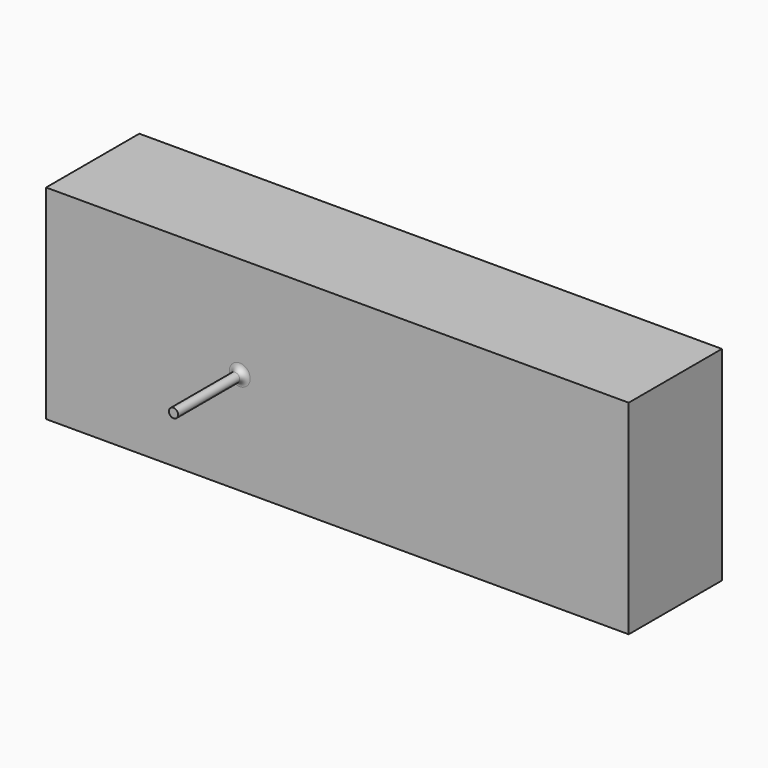
from build123d import *

# Parameters (mm, degrees)
BOX_W             = 100
BOX_H             = 20
BOX_DEPTH         = 35
CYLINDER001_R     = 0.795
CYLINDER001_DEPTH = 15
FILLET_R          = 1


with BuildPart() as cube:
    # Box → Box (new body)
    with BuildSketch(Plane(origin=(500, -8.3245, -17.5), x_dir=(1, 0, 0), z_dir=(0, 0, 1))):
        with Locations((50, 10)):
            Rectangle(BOX_W, BOX_H)
    extrude(amount=BOX_DEPTH)


with BuildPart() as fillet_body:
    # Cylinder001 → Cylinder001 (new body)
    with BuildSketch(Plane(origin=(533.235, -7.5295, 0), x_dir=(1, 0, 0), z_dir=(0, -1, 0))):
        Circle(CYLINDER001_R)
    extrude(amount=CYLINDER001_DEPTH)

    # Fusion: union Cube
    add(cube.part)

    # Fillet
    fillet_edges = [fillet_body.edges().sort_by_distance(p)[0] for p in [
        (532.44, -8.3245, 0),
    ]]
    fillet(fillet_edges, radius=FILLET_R)


solid = fillet_body.part
